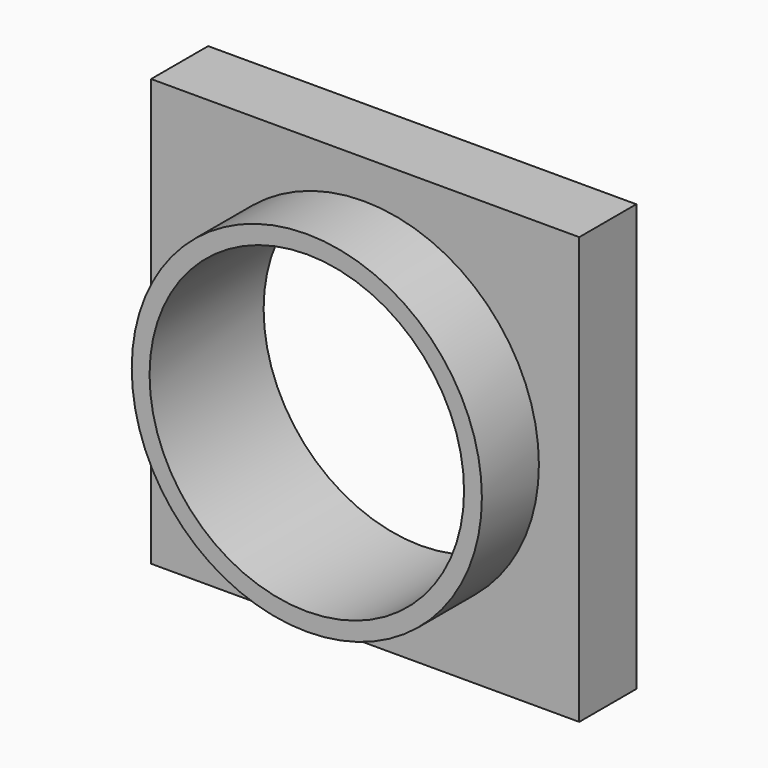
from build123d import *

# Parameters (mm, degrees)
F0_W     = 152.549193
F0_H     = 152.0672
F0_R     = 62.382267
F1_DEPTH = 25.4
F0_R_2   = 56.032267
F2_DEPTH = 50.8


with BuildPart() as f1:
    # F0 (on Front) → F1 (new body)
    with BuildSketch(Plane.XZ):
        with Locations((0.481986, 0)):
            Rectangle(F0_W, F0_H)
        Circle(F0_R, mode=Mode.SUBTRACT)
    extrude(amount=F1_DEPTH)

    # F0 (on Front) → F2 (join)
    with BuildSketch(Plane.XZ):
        Circle(F0_R)
        Circle(F0_R_2, mode=Mode.SUBTRACT)
    extrude(amount=F2_DEPTH)


solid = f1.part
